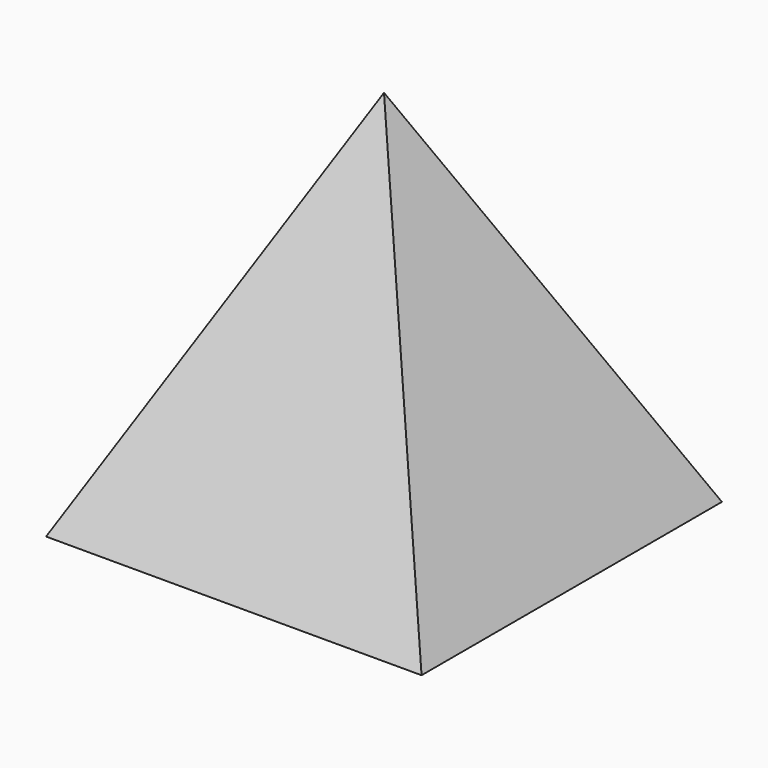
from build123d import *

# Parameters (mm, degrees)
F0_W     = 76.2
F0_H     = 76.2
F1_DEPTH = 76.2
F4_DEPTH = 76.2
F5_DEPTH = 76.2


with BuildPart() as f1:
    # F0 (on Right) → F1 (new body)
    with BuildSketch(Plane.YZ):
        with Locations((-38.1, 38.1)):
            Rectangle(F0_W, F0_H)
    extrude(amount=-F1_DEPTH)

    # F3 (on face) → F4 (cut)
    with BuildSketch(Plane(origin=(-76.2, 0, 0), x_dir=(0, -1, 0), z_dir=(-1, 0, 0))):
        Polygon((0, 76.2), (0, 0), (38.1, 76.2), align=None)
        Polygon((38.1, 76.2), (76.2, 0), (76.2, 76.2), align=None)
    extrude(amount=-F4_DEPTH, mode=Mode.SUBTRACT)

    # F2 (on face) → F5 (cut)
    with BuildSketch(Plane.XZ.offset(76.2)):
        Polygon((-76.2, 0), (-38.1, 76.2), (-76.2, 76.2), align=None)
        Polygon((0, 76.2), (-38.1, 76.2), (0, 0), align=None)
    extrude(amount=-F5_DEPTH, mode=Mode.SUBTRACT)


solid = f1.part
